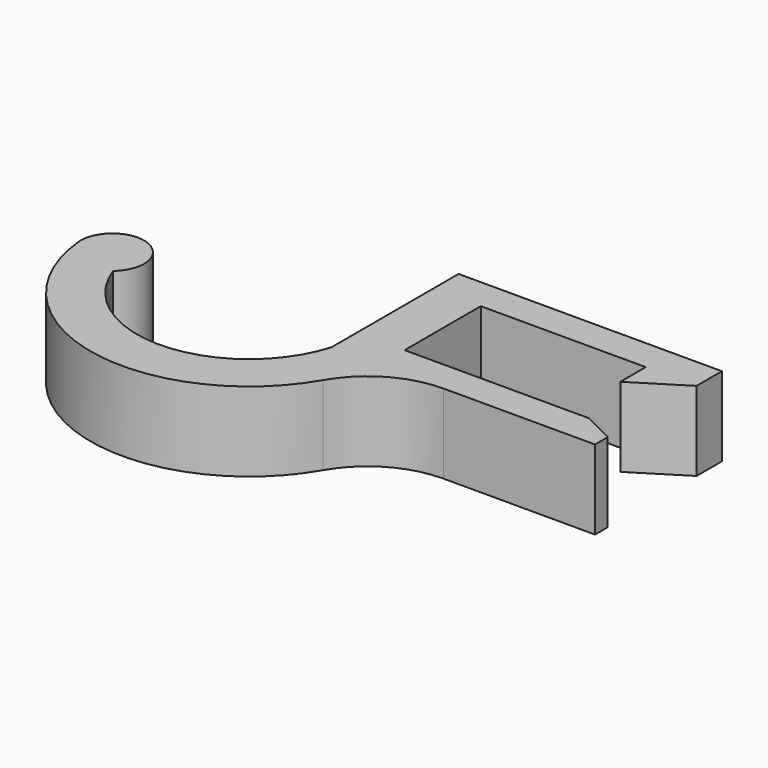
from build123d import *

# Parameters (mm, degrees)
F0_DEPTH = 7.9375
F1_R     = 19.05


with BuildPart() as f0:
    # F2 (on Top) → F0 (new body, symmetric)
    with BuildSketch(Plane.XY):
        with BuildLine():
            Line((36.83, 0), (0, 0))
            Line((0, 0), (0, 19.05))
            Line((0, 19.05), (33.02, 19.05))
            Line((33.02, 19.05), (33.02, 12.7))
            Line((33.02, 12.7), (43.18, 19.05))
            Line((43.18, 19.05), (43.18, 25.4))
            Line((43.18, 25.4), (-9.525, 25.4))
            Line((-9.525, 25.4), (-9.525, -6.35))
            ThreePointArc((-9.525, -6.35), (-30.491958, -22.48979), (-52.311708, -7.523005))
            ThreePointArc((-52.311708, -7.523005), (-53.687003, 3.104461), (-62.729088, -2.646641))
            ThreePointArc((-62.729088, -2.646641), (-62.723566, -2.872597), (-62.707014, -3.098013))
            ThreePointArc((-62.707014, -3.098013), (-32.752866, -31.707391), (0, -6.35))
            Line((0, -6.35), (43.18, -6.35))
            Line((43.18, -6.35), (43.18, -3.175))
            Line((43.18, -3.175), (36.83, 0))
        make_face()
    extrude(amount=F0_DEPTH, both=True)

    # F1
    f1_edges = [f0.edges().sort_by_distance(p)[0] for p in [
        (0, -6.35, 0),
    ]]
    fillet(f1_edges, radius=F1_R)


solid = f0.part
